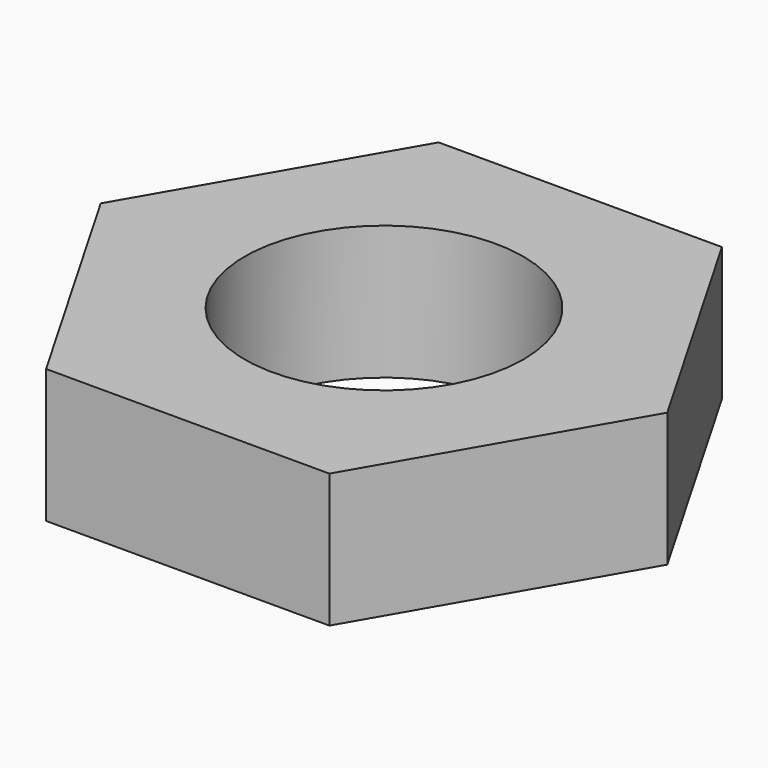
from build123d import *

# Parameters (mm, degrees)
SKETCH_R  = 6.25
PAD_DEPTH = 6


with BuildPart() as part:
    # Sketch → Pad (new body)
    with BuildSketch(Plane.XY):
        Polygon((12.701706, 0), (6.350853, 11), (-6.350853, 11), (-12.701706, 0), (-6.350853, -11), (6.350853, -11), align=None)
        Circle(SKETCH_R, mode=Mode.SUBTRACT)
    extrude(amount=PAD_DEPTH)


solid = part.part
